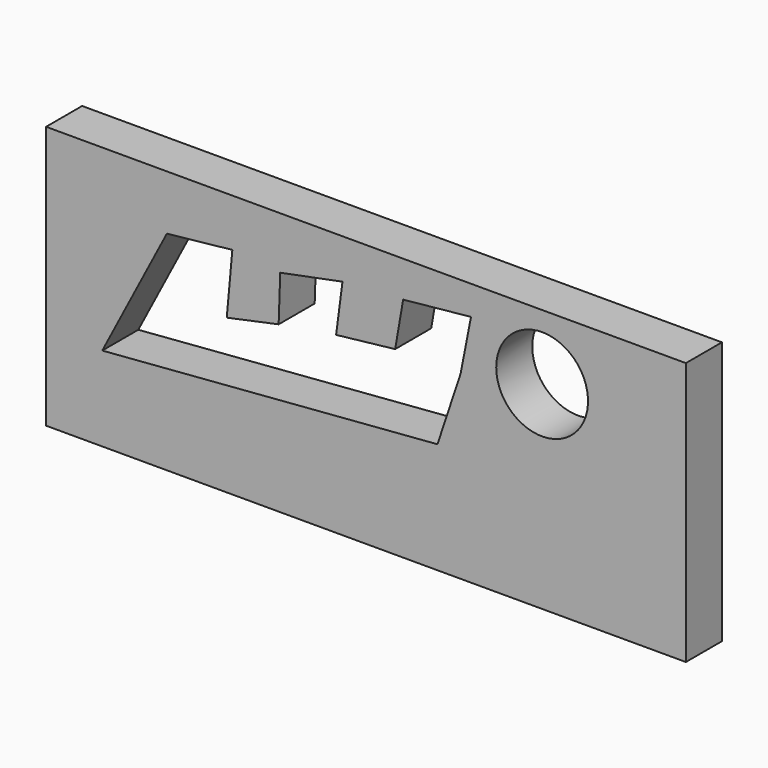
from build123d import *

# Parameters (mm, degrees)
F0_W     = 360.729664
F0_H     = 148.37706
F1_DEPTH = 25.4
F2_R     = 25.885086
F3_DEPTH = 25.4


with BuildPart() as f1:
    # F0 (on Front) → F1 (new body)
    with BuildSketch(Plane.XZ):
        Rectangle(F0_W, F0_H)
        Polygon((-148.697704, -26.601247), (-112.246476, 43.323327), (-75.345226, 47.225576), (-78.495331, 12.56507), (-49.244333, 18.759031), (-48.344307, 44.669721), (-13.243117, 51.652454), (-16.843244, 24.062283), (16.457889, 27.825298), (20.958038, 53.875219), (59.209336, 57.717167), (53.35914, 27.677407), (40.308692, -11.641144), align=None, mode=Mode.SUBTRACT)
        Rectangle(F0_W, F0_H)
        Polygon((-148.697704, -26.601247), (-112.246476, 43.323327), (-75.345226, 47.225576), (-78.495331, 12.56507), (-49.244333, 18.759031), (-48.344307, 44.669721), (-13.243117, 51.652454), (-16.843244, 24.062283), (16.457889, 27.825298), (20.958038, 53.875219), (59.209336, 57.717167), (53.35914, 27.677407), (40.308692, -11.641144), align=None, mode=Mode.SUBTRACT)
    extrude(amount=F1_DEPTH)

    # F2 (on face) → F3 (cut)
    with BuildSketch(Plane(origin=(0, 0, 0), x_dir=(-1, 0, 0), z_dir=(0, 1, 0))):
        with Locations((-99.316008, 37.326083)):
            Circle(F2_R)
    extrude(amount=-F3_DEPTH, mode=Mode.SUBTRACT)


solid = f1.part
